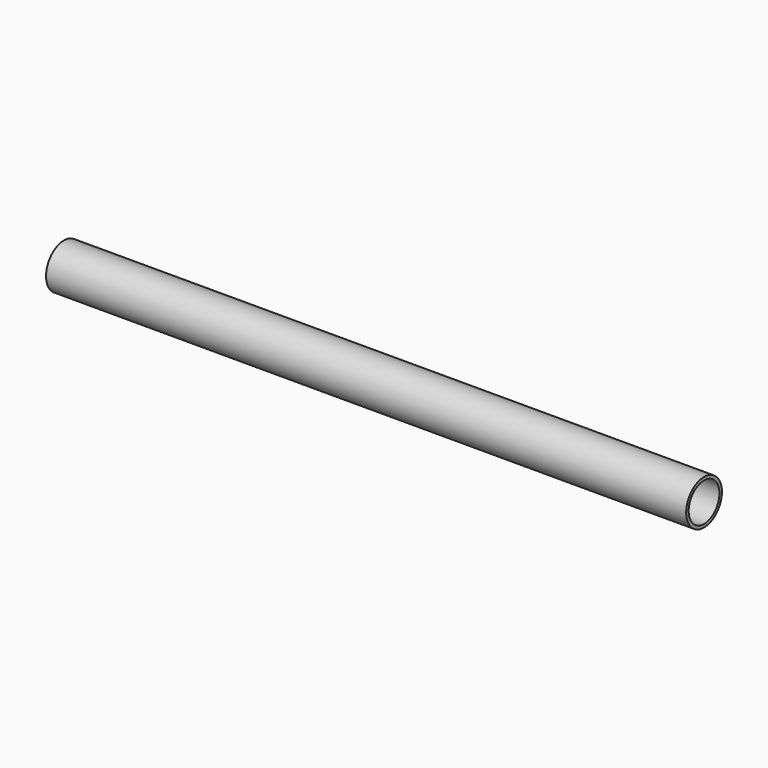
from build123d import *

# Parameters (mm, degrees)
F0_R      = 75.025987
F1_DEPTH  = 2148.84
F2_R      = 64.485043
F3_DEPTH  = 203.2
F3_FACE_R = 64.485043
F4_DEPTH  = 1513.84


with BuildPart() as f1:
    # F0 (on Right) → F1 (new body)
    with BuildSketch(Plane.YZ):
        Circle(F0_R)
    extrude(amount=F1_DEPTH)

    # F2 (on face) → F3 (cut)
    with BuildSketch(Plane.YZ.offset(2148.84)):
        Circle(F2_R)
    extrude(amount=-F3_DEPTH, mode=Mode.SUBTRACT)

    # F3_face (on face) → F4 (cut)
    with BuildSketch(Plane.YZ.offset(1945.64)):
        Circle(F3_FACE_R)
    extrude(amount=-F4_DEPTH, mode=Mode.SUBTRACT)


solid = f1.part
